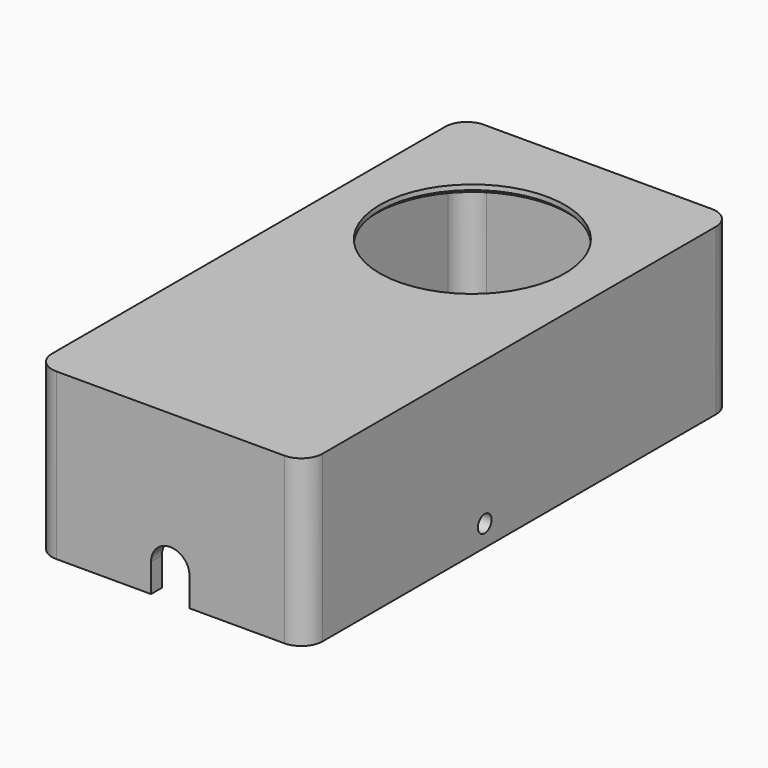
from build123d import *

# Parameters (mm, degrees)
SKETCH013_R             = 13
PAD007_DEPTH            = 23.2
POCKET006_DEPTH         = 22
CHAMFER_SIZE            = 0.5
POCKET017_DEPTH         = 5
SKETCH055_R             = 1.2
POCKET020012_DEPTH      = 38.001
BODY002_PLACEMENT_ANGLE = 180


with BuildPart() as part:
    # Sketch013 → Pad007 (new body)
    with BuildSketch(Plane.XY):
        with BuildLine():
            ThreePointArc((-48, 75), (-50.12132, 74.12132), (-51, 72))
            Line((-51, 3), (-51, 72))
            ThreePointArc((-51, 3), (-50.12132, 0.87868), (-48, 0))
            Line((-16, 0), (-48, 0))
            ThreePointArc((-16, 0), (-13.87868, 0.87868), (-13, 3))
            Line((-13, 72), (-13, 3))
            ThreePointArc((-13, 72), (-13.87868, 74.12132), (-16, 75))
            Line((-48, 75), (-16, 75))
        make_face()
        with Locations((-32, 53)):
            Circle(SKETCH013_R, mode=Mode.SUBTRACT)
    extrude(amount=PAD007_DEPTH)

    # Sketch014 (on Face11 of Pad007) → Pocket006 (cut)
    with BuildSketch(Plane.XY.offset(23.2)):
        with BuildLine():
            Line((-46.1, 73.1), (-17.9, 73.1))
            ThreePointArc((-14.9, 70.1), (-15.77868, 72.22132), (-17.9, 73.1))
            Line((-14.9, 70.1), (-14.9, 4.9))
            ThreePointArc((-17.9, 1.9), (-15.77868, 2.77868), (-14.9, 4.9))
            Line((-17.9, 1.9), (-46.1, 1.9))
            ThreePointArc((-49.1, 4.9), (-48.22132, 2.77868), (-46.1, 1.9))
            Line((-49.1, 4.9), (-49.1, 70.1))
            ThreePointArc((-46.1, 73.1), (-48.22132, 72.22132), (-49.1, 70.1))
        make_face()
    extrude(amount=-POCKET006_DEPTH, mode=Mode.SUBTRACT)

    # Chamfer
    chamfer_edges = [part.edges().sort_by_distance(p)[0] for p in [
        (-45, 53, 1.2),
    ]]
    chamfer(chamfer_edges, length=CHAMFER_SIZE)

    # Sketch031 → Pocket017 (cut)
    with BuildSketch(Plane.XZ):
        with BuildLine():
            ThreePointArc((-29.3, 25.058865), (-32, 27.758865), (-34.7, 25.058865))
            Line((-34.7, 25.058865), (-34.7, 19.2))
            ThreePointArc((-34.7, 19.2), (-32, 16.5), (-29.3, 19.2))
            Line((-29.3, 19.2), (-29.3, 25.058865))
        make_face()
    extrude(amount=-POCKET017_DEPTH, mode=Mode.SUBTRACT)

    # Sketch055 (on Face6 of Pocket017) → Pocket020012 (cut, through all)
    with BuildSketch(Plane(origin=(-51, 0, 0), x_dir=(0, -1, 0), z_dir=(-1, 0, 0))):
        with Locations((-31.42, 20.2)):
            Circle(SKETCH055_R)
    extrude(amount=-POCKET020012_DEPTH, mode=Mode.SUBTRACT)


with BuildPart() as part_1:
    # Body002 placement: moved
    add(part.part.moved(Location((-64, 0, 0))).rotate(Axis((-64, 0, 0), (0, 1, 0)), BODY002_PLACEMENT_ANGLE))


solid = part_1.part
